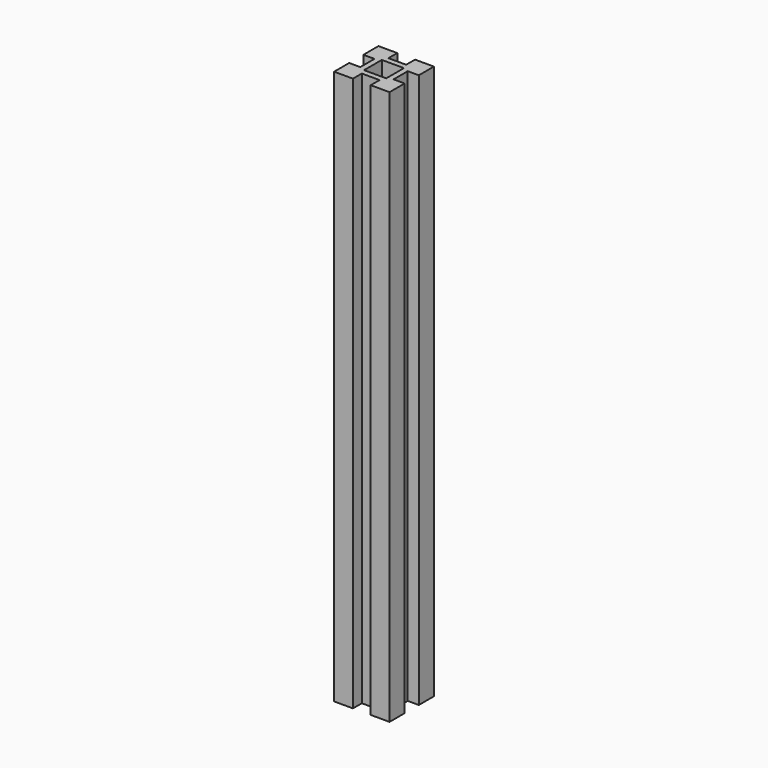
from build123d import *

# Parameters (mm, degrees)
F0_W     = 4
F0_H     = 4
F1_DEPTH = 100


with BuildPart() as f1:
    # F0 (on Top) → F1 (new body)
    with BuildSketch(Plane.XY):
        Polygon((5, 1.6), (5, 5), (1.6, 5), (1.6, 3), (-1.6, 3), (-1.6, 5), (-5, 5), (-5, 1.6), (-3, 1.6), (-3, -1.6), (-5, -1.6), (-5, -5), (-1.6, -5), (-1.6, -3), (1.6, -3), (1.6, -5), (5, -5), (5, -1.6), (3, -1.6), (3, 1.6), align=None)
        Rectangle(F0_W, F0_H, mode=Mode.SUBTRACT)
    extrude(amount=F1_DEPTH)


solid = f1.part
